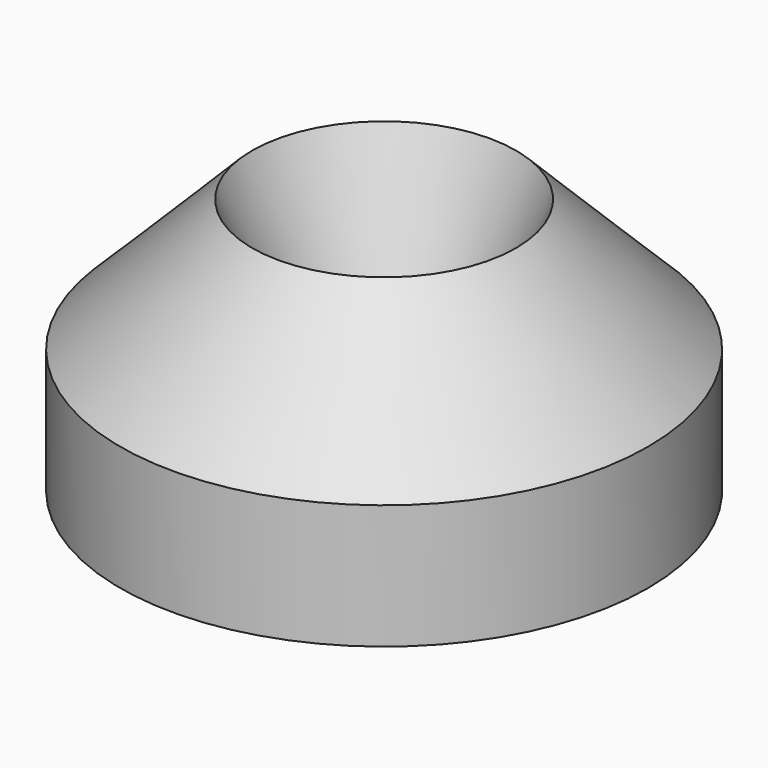
from build123d import *

# Parameters (mm, degrees)
F0_R           = 14
F1_DEPTH       = 14.6
F3_SIZE        = 8
F4_D           = 6
F4_START       = 1
F4_CSINK_D     = 14
F4_CSINK_ANGLE = 45


with BuildPart() as f1:
    # F0 (on Top) → F1 (new body)
    with BuildSketch(Plane.XY):
        Circle(F0_R)
    extrude(amount=F1_DEPTH)

    # F3
    f3_edges = [f1.edges().sort_by_distance(p)[0] for p in [
        (-14, 0, 14.6),
    ]]
    chamfer(f3_edges, length=F3_SIZE)

    # F4 (through all)
    # its depths count from where the whole tool has entered the part; down to there all is cleared
    with Locations(Plane.XY.offset(14.6).offset(-F4_START)):
        with Locations((0, 0)):
            CounterSinkHole(F4_D / 2, F4_CSINK_D / 2, counter_sink_angle=F4_CSINK_ANGLE)


solid = f1.part
